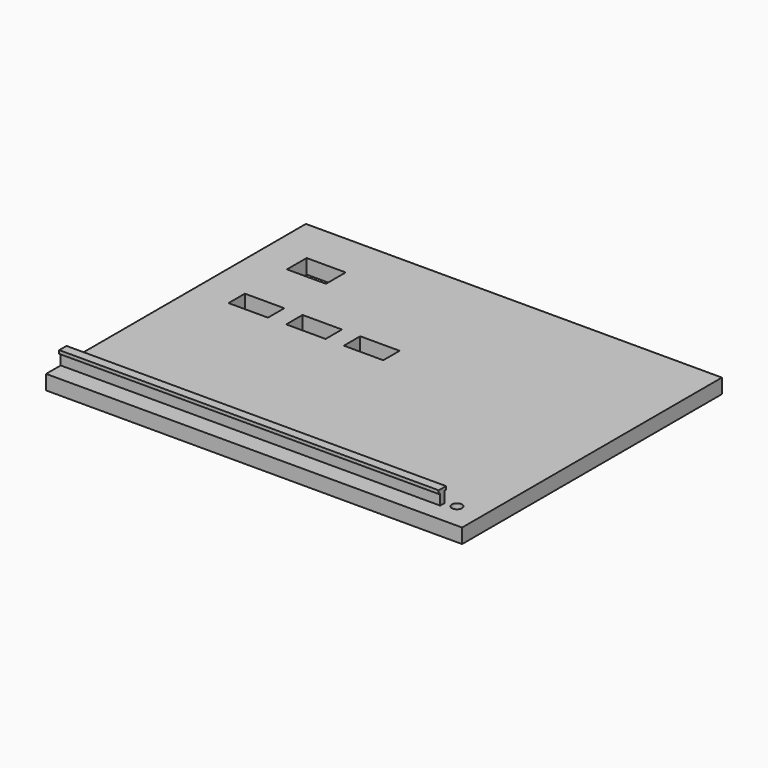
from build123d import *

# Parameters (mm, degrees)
SKETCH158_W   = 114
SKETCH158_H   = 89
SKETCH158_W_2 = 10.8
SKETCH158_H_2 = 5.6
SKETCH158_W_3 = 10.7
SKETCH158_H_3 = 6.75
PAD_DEPTH     = 4
PAD001_DEPTH  = 2
FILLET_R      = 0.5
SKETCH160_W   = 1.5
SKETCH160_H   = 3
SKETCH160_W_2 = 2.5
SKETCH160_H_2 = 0.9
PAD003_DEPTH  = 104
SKETCH161_R   = 1.4
POCKET_DEPTH  = 5


with BuildPart() as part:
    # Sketch158 → Pad (new body)
    with BuildSketch(Plane.XY):
        with Locations((57, 44.5)):
            Rectangle(SKETCH158_W, SKETCH158_H)
        with Locations((31.2, 52.8)):
            Rectangle(SKETCH158_W_2, SKETCH158_H_2, mode=Mode.SUBTRACT)
        with Locations((47, 52.8)):
            Rectangle(SKETCH158_W_2, SKETCH158_H_2, mode=Mode.SUBTRACT)
        with Locations((15.4, 52.8)):
            Rectangle(SKETCH158_W_2, SKETCH158_H_2, mode=Mode.SUBTRACT)
        with Locations((15.35, 73.375)):
            Rectangle(SKETCH158_W_3, SKETCH158_H_3, mode=Mode.SUBTRACT)
    extrude(amount=PAD_DEPTH)

    # Sketch159 → Pad001 (join)
    with BuildSketch(Plane(origin=(0, 0, 0), x_dir=(1, 0, 0), z_dir=(0, 0, -1))):
        Polygon((70.999116, -84.5074), (85.999116, -84.5074), (102.903847, -48.255089), (76.823852, -55.24321), (91.244924, -31.24253), (92.473681, -36.280333), (98.788067, -17.050922), (82.960377, -29.532091), (88.686929, -29.085032), (65.175526, -61.445717), (92.221447, -54.198777), align=None)
    extrude(amount=PAD001_DEPTH)

    # Fillet
    fillet_edges = [part.edges().sort_by_distance(p)[0] for p in [
        (94.451481, 66.381245, -2),
        (78.499116, 84.5074, -2),
        (81.610281, 69.353088, -2),
        (78.698487, 57.822247, -2),
        (89.86385, 51.74915, -2),
        (84.034388, 43.24287, -2),
        (91.859302, 33.761432, -2),
        (95.630874, 26.665627, -2),
        (90.874222, 23.291507, -2),
        (85.823653, 29.308561, -2),
        (76.931228, 45.265374, -2),
    ]]
    fillet(fillet_edges, radius=FILLET_R)

    # Sketch160 → Pad003 (join)
    with BuildSketch(Plane.YZ):
        with Locations((5.75, 5.5)):
            Rectangle(SKETCH160_W, SKETCH160_H)
        with Locations((5.75, 7.45)):
            Rectangle(SKETCH160_W_2, SKETCH160_H_2)
    extrude(amount=PAD003_DEPTH)

    # Sketch161 → Pocket (cut)
    with BuildSketch(Plane.XY):
        with Locations((107, 7)):
            Circle(SKETCH161_R)
    extrude(amount=POCKET_DEPTH, mode=Mode.SUBTRACT)


solid = part.part
